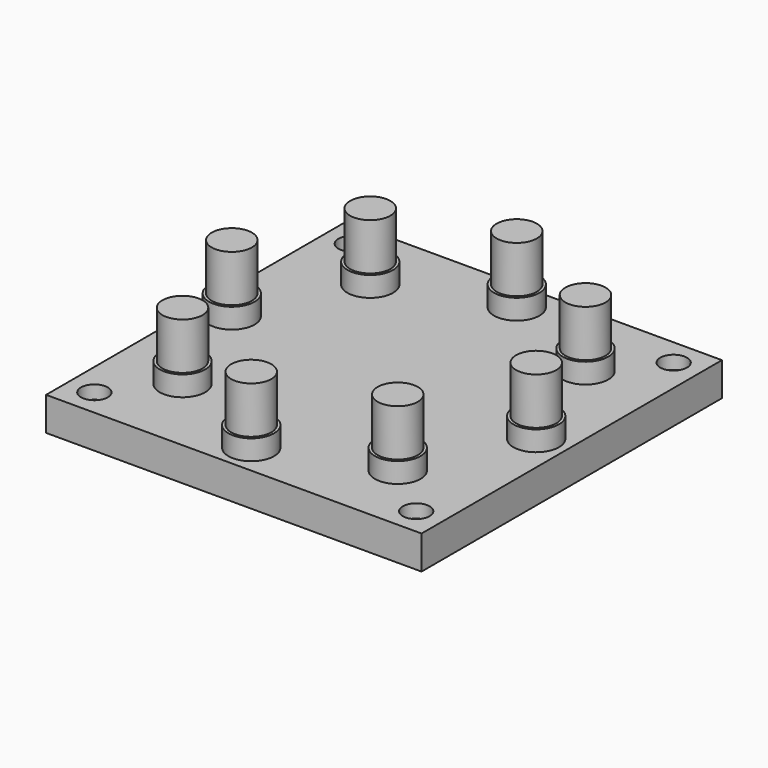
from build123d import *

# Parameters (mm, degrees)
CYLINDER001_R     = 3
CYLINDER001_DEPTH = 10
SKETCH001_R       = 3.4
PAD_DEPTH         = 3
ARRAY001_COUNT    = 8
BOX001_W          = 56
BOX001_H          = 56
BOX001_DEPTH      = 5
SKETCH002_R       = 2
POCKET001_DEPTH   = 2
SKETCH004_R       = 1
POCKET002_DEPTH   = 5.001
SKETCH005_R       = 1
POCKET003_DEPTH   = 5.001


with BuildPart() as array001:
    # Cylinder001 → Cylinder001 (new body)
    with BuildSketch(Plane(origin=(-23.5, 1, 0), x_dir=(1, 0, 0), z_dir=(0, 0, 1))):
        Circle(CYLINDER001_R)
    extrude(amount=CYLINDER001_DEPTH)

    # Sketch001 → Pad (new body, symmetric)
    with BuildSketch(Plane(origin=(-23.5, 1, 0), x_dir=(1, 0, 0), z_dir=(0, 0, -1))):
        Circle(SKETCH001_R)
    extrude(amount=PAD_DEPTH, both=True)

    # Array001: Array001 ×8 about axis
    array001_axis = Axis((0, 0, 0), (0, 0, 1))


with BuildPart() as array001_1:
    add(array001.part)
    for i in range(1, ARRAY001_COUNT):
        add(array001.part.rotate(array001_axis, i * 360 / ARRAY001_COUNT))


with BuildPart() as pocket003:
    # Box001 → Box001 (new body)
    with BuildSketch(Plane(origin=(-28, -28, -5), x_dir=(1, 0, 0), z_dir=(0, 0, 1))):
        with Locations((28, 28)):
            Rectangle(BOX001_W, BOX001_H)
    extrude(amount=BOX001_DEPTH)

    # Fusion: union Array001
    add(array001_1.part)

    # Sketch002 → Pocket001 (cut)
    with BuildSketch(Plane.XY):
        with Locations((-24, 24)):
            Circle(SKETCH002_R)
        with Locations((24, 24)):
            Circle(SKETCH002_R)
        with Locations((24, -24)):
            Circle(SKETCH002_R)
        with Locations((-24, -24)):
            Circle(SKETCH002_R)
    extrude(amount=-POCKET001_DEPTH, mode=Mode.SUBTRACT)

    # Sketch004 → Pocket002 (cut, through all)
    with BuildSketch(Plane.XY):
        with Locations((-24, 24)):
            Circle(SKETCH004_R)
        with Locations((24, 24)):
            Circle(SKETCH004_R)
        with Locations((-24, -24)):
            Circle(SKETCH004_R)
    extrude(amount=-POCKET002_DEPTH, mode=Mode.SUBTRACT)

    # Sketch005 → Pocket003 (cut, through all)
    with BuildSketch(Plane.XY):
        with Locations((24, -24)):
            Circle(SKETCH005_R)
    extrude(amount=-POCKET003_DEPTH, mode=Mode.SUBTRACT)


solid = pocket003.part
